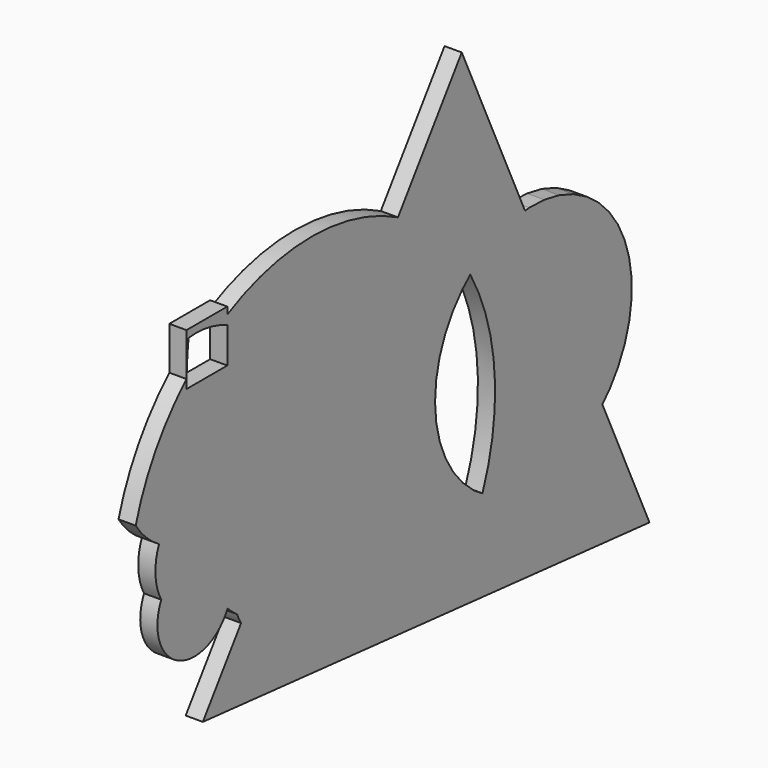
from build123d import *

# Parameters (mm, degrees)
F1_DEPTH = 25.4


with BuildPart() as f1:
    # F0 (on Right) → F1 (new body)
    with BuildSketch(Plane.YZ):
        with BuildLine():
            Line((5.3862427492, 76.7555311322), (0, 76.7555311322))
            Line((0, 76.7555311322), (0, 64.6187240932))
            ThreePointArc((0, 64.6187240932), (1.9314521574, 64.8609267634), (3.8662446042, 65.0748140172))
            ThreePointArc((3.8662446042, 65.0748140172), (4.5949489658, 70.9192449191), (5.3862427492, 76.7555311322))
        make_face()
        with BuildLine():
            Line((75.4848867655, 76.7555311322), (5.3862427492, 76.7555311322))
            ThreePointArc((5.3862427492, 76.7555311322), (4.5949489658, 70.9192449191), (3.8662446042, 65.0748140172))
            ThreePointArc((3.8662446042, 65.0748140172), (32.7930120665, 64.8934055874), (60.9952815162, 58.4573522376))
            ThreePointArc((60.9952815162, 58.4573522376), (68.191493841, 62.5298426374), (75.4848867655, 66.4256184947))
            Line((75.4848867655, 66.4256184947), (75.4848867655, 76.7555311322))
        make_face()
        with BuildLine():
            ThreePointArc((3.8662446042, 65.0748140172), (1.9314521574, 64.8609267634), (0, 64.6187240932))
            Line((0, 64.6187240932), (0, 13.0880264162))
            ThreePointArc((0, 13.0880264162), (0.0797042079, 13.1625355732), (0.1594323913, 13.2370190749))
            ThreePointArc((0.1594323913, 13.2370190749), (1.399759177, 39.199756565), (3.8662446042, 65.0748140172))
        make_face()
        with BuildLine():
            ThreePointArc((0.1594323913, 13.2370190749), (0.0797042079, 13.1625355732), (0, 13.0880264162))
            Line((0, 13.0880264162), (0, 0))
            ThreePointArc((0, 0), (0.0398595433, 6.6189895882), (0.1594323913, 13.2370190749))
        make_face()
        with BuildLine():
            Line((0, 0), (0, 13.0880264162))
            ThreePointArc((0, 13.0880264162), (-57.2227485948, -56.9347894415), (-93.8985440453, -139.5938707663))
            ThreePointArc((-93.8985440453, -139.5938707663), (-74.7023537588, -162.8329992856), (-50.7631260646, -181.1486809071))
            ThreePointArc((-50.7631260646, -181.1486809071), (134.418433918, -130.3074814993), (75.4848867655, 52.459787821))
            Line((75.4848867655, 52.459787821), (75.4848867655, 0))
            Line((75.4848867655, 0), (0, 0))
        make_face()
        with BuildLine():
            ThreePointArc((390.9781885196, 64.6620097575), (233.4491947056, 104.480650876), (75.4848867655, 66.4256184947))
            Line((75.4848867655, 66.4256184947), (75.4848867655, 52.459787821))
            ThreePointArc((75.4848867655, 52.459787821), (134.418433918, -130.3074814993), (-50.7631260646, -181.1486809071))
            ThreePointArc((-50.7631260646, -181.1486809071), (-57.3407742049, -218.7050554571), (-46.5994364643, -255.2888003165))
            ThreePointArc((-46.5994364643, -255.2888003165), (-15.8351680469, -347.0549469278), (75.9935366918, -316.4779153328))
            ThreePointArc((75.9935366918, -316.4779153328), (84.4804183959, -324.2078161859), (93.5921058689, -331.1903429243))
            ThreePointArc((93.5921058689, -331.1903429243), (99.5887961578, -335.1608026322), (105.7880268546, -338.8069490201))
            Line((105.7880268546, -338.8069490201), (390.9781885196, 64.6620097575))
        make_face()
        with BuildLine():
            Line((75.4848867655, 52.459787821), (75.4848867655, 66.4256184947))
            ThreePointArc((75.4848867655, 66.4256184947), (68.191493841, 62.5298426374), (60.9952815162, 58.4573522376))
            ThreePointArc((60.9952815162, 58.4573522376), (68.3286241876, 55.6724752477), (75.4848867655, 52.459787821))
        make_face()
        with BuildLine():
            Line((508.869806802, 231.447596607), (390.9781885196, 64.6620097575))
            ThreePointArc((390.9781885196, 64.6620097575), (466.8429069503, 9.5420995027), (524.7053222998, -64.2522153119))
            Line((524.7053222998, -64.2522153119), (530.5195744083, -59.0245212478))
            Line((530.5195744083, -59.0245212478), (553.822797689, -43.7876499609))
            Line((553.822797689, -43.7876499609), (579.178814564, -32.2865687022))
            Line((579.178814564, -32.2865687022), (605.9933014884, -24.7908530686))
            Line((605.9933014884, -24.7908530686), (625.8747293704, -22.4070069681))
            Line((625.8747293704, -22.4070069681), (508.869806802, 231.447596607))
        make_face()
        with BuildLine():
            ThreePointArc((524.7053222998, -64.2522153119), (466.8429069503, 9.5420995027), (390.9781885196, 64.6620097575))
            Line((390.9781885196, 64.6620097575), (105.7880268546, -338.8069490201))
            ThreePointArc((105.7880268546, -338.8069490201), (176.1168073384, -355.610653428), (245.0538575649, -333.7889909744))
            ThreePointArc((245.0538575649, -333.7889909744), (176.5880738948, -383.3985207357), (100.8892695091, -345.7374003159))
            Line((100.8892695091, -345.7374003159), (30.2667221668, -445.6497026059))
            Line((30.2667221668, -445.6497026059), (459.8510392405, -485.156246703))
            ThreePointArc((459.8510392405, -485.156246703), (510.8462412084, -426.6986552247), (547.2178651376, -358.1792740399))
            Line((547.2178651376, -358.1792740399), (531.7915045279, -348.2852703807))
            Line((531.7915045279, -348.2852703807), (510.9243750188, -329.8525449194))
            Line((510.9243750188, -329.8525449194), (493.1155417724, -308.4504908057))
            Line((493.1155417724, -308.4504908057), (478.7824287459, -284.5807540487))
            Line((478.7824287459, -284.5807540487), (468.2609919604, -258.8028210468))
            Line((468.2609919604, -258.8028210468), (461.7978449766, -231.7209047013))
            Line((461.7978449766, -231.7209047013), (459.5444784819, -203.9697821776))
            Line((459.5444784819, -203.9697821776), (461.5537094771, -176.1999162671))
            Line((461.5537094771, -176.1999162671), (467.7784432907, -149.0622090899))
            Line((467.7784432907, -149.0622090899), (478.0727774378, -123.1927455016))
            Line((478.0727774378, -123.1927455016), (492.1954214511, -99.1978838026))
            Line((492.1954214511, -99.1978838026), (509.8153525247, -77.640043214))
            Line((509.8153525247, -77.640043214), (524.7053222998, -64.2522153119))
        make_face()
        with BuildLine():
            Line((530.5195744083, -59.0245212478), (524.7053222998, -64.2522153119))
            ThreePointArc((524.7053222998, -64.2522153119), (569.58102559, -208.6407558217), (547.2178651376, -358.1792740399))
            Line((547.2178651376, -358.1792740399), (555.2278224701, -363.3166197278))
            Line((555.2278224701, -363.3166197278), (580.6840014165, -374.594270872))
            Line((580.6840014165, -374.594270872), (607.5633701083, -381.8538852288))
            Line((607.5633701083, -381.8538852288), (635.2358989253, -384.9253035909))
            Line((635.2358989253, -384.9253035909), (663.0529672461, -383.7365345149))
            Line((663.0529672461, -383.7365345149), (690.362566566, -378.3154417404))
            Line((690.362566566, -378.3154417404), (716.5245830234, -368.7890910874))
            Line((716.5245830234, -368.7890910874), (740.9258011265, -355.3807721411))
            Line((740.9258011265, -355.3807721411), (762.9942770044, -338.4047645331))
            Line((762.9942770044, -338.4047645331), (768.7441699807, -332.3774288358))
            Line((768.7441699807, -332.3774288358), (625.8747293704, -22.4070069681))
            Line((625.8747293704, -22.4070069681), (605.9933014884, -24.7908530686))
            Line((605.9933014884, -24.7908530686), (579.178814564, -32.2865687022))
            Line((579.178814564, -32.2865687022), (553.822797689, -43.7876499609))
            Line((553.822797689, -43.7876499609), (530.5195744083, -59.0245212478))
        make_face()
        with BuildLine():
            Line((100.8892695091, -345.7374003159), (105.7880268546, -338.8069490201))
            ThreePointArc((105.7880268546, -338.8069490201), (99.5887961578, -335.1608026322), (93.5921058689, -331.1903429243))
            ThreePointArc((93.5921058689, -331.1903429243), (96.8772664999, -338.6461726736), (100.8892695091, -345.7374003159))
        make_face()
        with BuildLine():
            ThreePointArc((245.0538575649, -333.7889909744), (176.1168073384, -355.610653428), (105.7880268546, -338.8069490201))
            Line((105.7880268546, -338.8069490201), (100.8892695091, -345.7374003159))
            ThreePointArc((100.8892695091, -345.7374003159), (176.5880738948, -383.3985207357), (245.0538575649, -333.7889909744))
        make_face()
        with BuildLine():
            Line((555.2278224701, -363.3166197278), (547.2178651376, -358.1792740399))
            ThreePointArc((547.2178651376, -358.1792740399), (510.8462412084, -426.6986552247), (459.8510392405, -485.156246703))
            Line((459.8510392405, -485.156246703), (855.9517264366, -521.5834826231))
            Line((855.9517264366, -521.5834826231), (768.7441699807, -332.3774288358))
            Line((768.7441699807, -332.3774288358), (762.9942770044, -338.4047645331))
            Line((762.9942770044, -338.4047645331), (740.9258011265, -355.3807721411))
            Line((740.9258011265, -355.3807721411), (716.5245830234, -368.7890910874))
            Line((716.5245830234, -368.7890910874), (690.362566566, -378.3154417404))
            Line((690.362566566, -378.3154417404), (663.0529672461, -383.7365345149))
            Line((663.0529672461, -383.7365345149), (635.2358989253, -384.9253035909))
            Line((635.2358989253, -384.9253035909), (607.5633701083, -381.8538852288))
            Line((607.5633701083, -381.8538852288), (580.6840014165, -374.594270872))
            Line((580.6840014165, -374.594270872), (555.2278224701, -363.3166197278))
        make_face()
        Polygon((633.6377496157, -21.4761962813), (625.8747293704, -22.4070069681), (768.7441699807, -332.3774288358), (782.212744287, -318.2589714936), (798.13073839, -295.4155933367), (810.3751550229, -270.4100594852), (818.658995438, -243.8284784588), (822.7880934368, -216.2938999874), (822.665666462, -188.4517112531), (818.2945840981, -160.9545095619), (809.7773008109, -134.4468060158), (797.3134545018, -109.5499187191), (781.1951871644, -86.8474096084), (761.8002973238, -66.8714062555), (739.5833847597, -50.0901292482), (715.0651950722, -36.8969174962), (688.8204138471, -27.6010087011), (661.4641965122, -22.4202910862), align=None)
    extrude(amount=F1_DEPTH)


solid = f1.part
